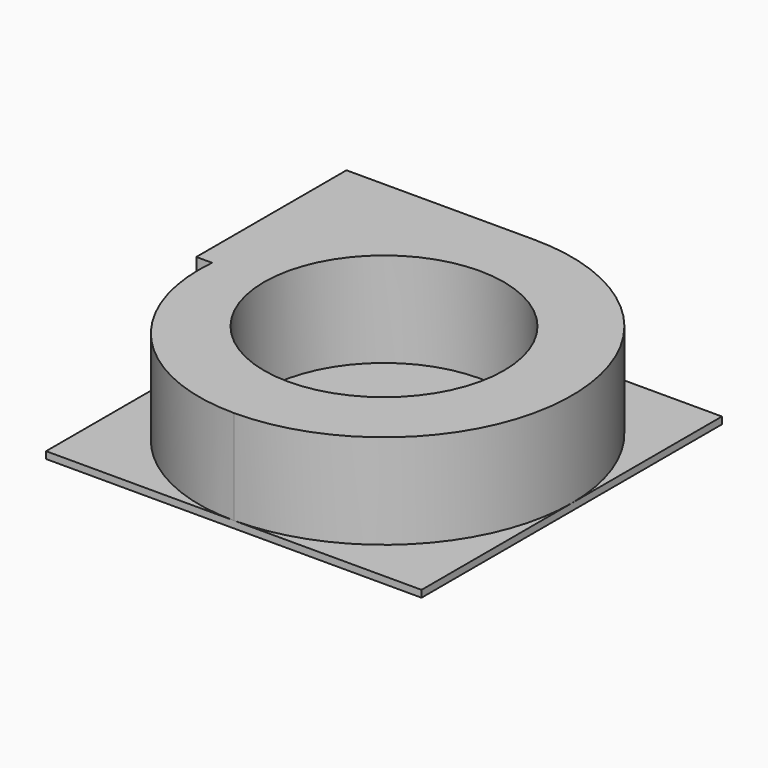
from build123d import *

# Parameters (mm, degrees)
F0_W     = 119
F0_H     = 119
F1_DEPTH = 2.2
F3_DEPTH = 30
F4_R     = 38
F5_DEPTH = 30
F6_T     = -2.2
F7_DEPTH = 1


with BuildPart() as f1:
    # F0 (on Top) → F1 (new body)
    with BuildSketch(Plane.XY):
        Rectangle(F0_W, F0_H)
    extrude(amount=F1_DEPTH)

    # F7 (add): a face of the model
    f7_faces = [f1.faces().sort_by_distance(p)[0] for p in [
        (0, 0, 2.2),
    ]]


with BuildPart() as f3:
    # F2 (on face) → F3 (new body)
    with BuildSketch(Plane.XY.offset(2.2)):
        with BuildLine():
            ThreePointArc((-54.5, 0), (-40.3438347211, -41.7435124756), (0, -59.5))
            ThreePointArc((0, -59.5), (59.5, 0), (0, 59.5))
            Line((0, 59.5), (-59.5, 59.5))
            Line((-59.5, 59.5), (-59.5, 0))
            Line((-59.5, 0), (-54.5, 0))
        make_face()
    extrude(amount=F3_DEPTH)

    # F4 (on face) → F5 (cut, through all)
    with BuildSketch(Plane.XY.offset(32.2)):
        Circle(F4_R)
    extrude(amount=-F5_DEPTH, mode=Mode.SUBTRACT)

    # F6
    f6_openings = [f3.faces().sort_by_distance(p)[0] for p in [
        (-59.5, 29.75, 17.2),
    ]]
    offset(amount=F6_T, openings=f6_openings, kind=Kind.INTERSECTION)


with BuildPart() as f1_1:
    add(f1.part)

    add(f3.part)  # F7 merges F3
    extrude(f7_faces, amount=-F7_DEPTH)


solid = f1_1.part
